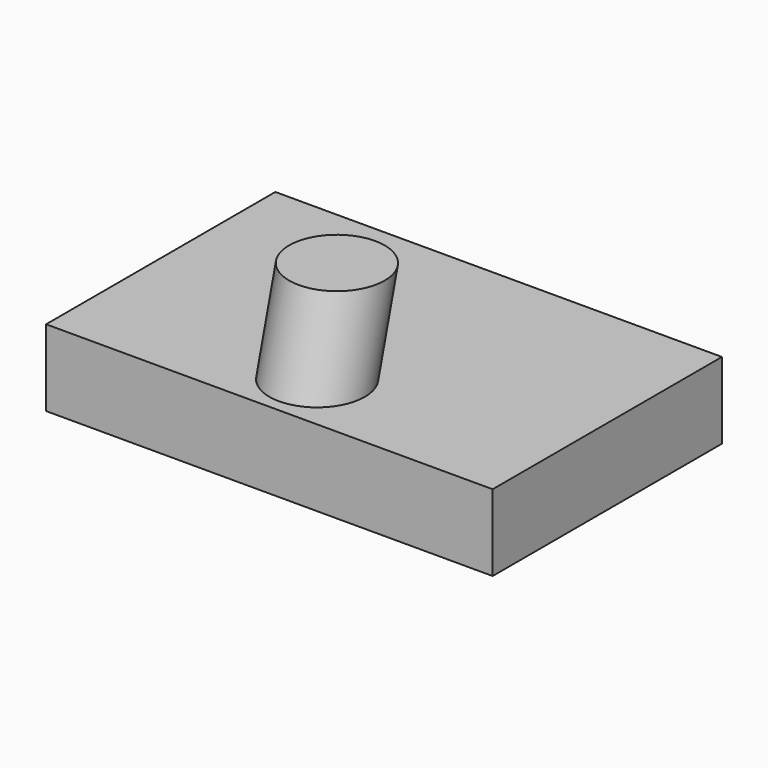
from build123d import *

# Parameters (mm, degrees)
F0_W     = 18.7
F0_H     = 12
F1_DEPTH = 3.2
F3_R     = 3.3
F4_DEPTH = 2.8
F2_R     = 2


with BuildPart() as f1:
    # F0 (on Top) → F1 (new body)
    with BuildSketch(Plane.XY):
        Rectangle(F0_W, F0_H)
    extrude(amount=F1_DEPTH)

    # F3 (on face) → F4 (cut)
    with BuildSketch(Plane(origin=(0, 0, 0), x_dir=(1, 0, 0), z_dir=(0, 0, -1))):
        with Locations((0, -2)):
            Circle(F3_R)
    extrude(amount=-F4_DEPTH, mode=Mode.SUBTRACT)

    # F6: sweep along a path in F5
    with BuildLine(Plane.YZ) as f6_path:
        Line((-3.5, 3.2), (-2.4647238196, 7.0637033052))
    # F2 (on face) → F6 (sweep)
    with BuildSketch(Plane.XY.offset(3.2)):
        with Locations((0, -3.5)):
            Circle(F2_R)
    sweep(path=f6_path.line)


solid = f1.part
